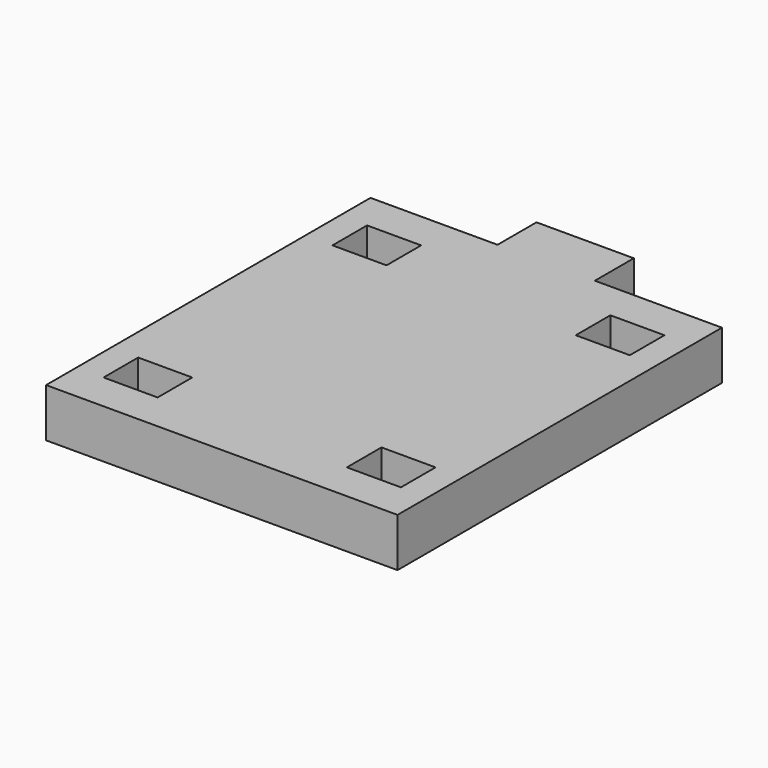
from build123d import *

# Parameters (mm, degrees)
F0_W     = 65
F0_H     = 75
F1_DEPTH = 9
F3_DEPTH = 9
F4_W     = 10
F4_H     = 8
F5_DEPTH = 9.001


with BuildPart() as f1:
    # F0 (on Top) → F1 (new body)
    with BuildSketch(Plane.XY):
        Rectangle(F0_W, F0_H)
    extrude(amount=F1_DEPTH)

    # F2 (on face) → F3 (join, through all)
    with BuildSketch(Plane.XY.offset(9)):
        Polygon((9, 46.5), (0, 46.5), (-9, 46.5), (-9, 37.5), (0, 37.5), (9, 37.5), align=None)
    extrude(amount=-F3_DEPTH)

    # F4 (on face) → F5 (cut, through all)
    with BuildSketch(Plane.XY.offset(9)):
        with Locations((-22.5, 26.4595)):
            Rectangle(F4_W, F4_H)
        with Locations((22.5, 26.4595)):
            Rectangle(F4_W, F4_H)
        with Locations((22.5, -26.4595)):
            Rectangle(F4_W, F4_H)
        with Locations((-22.5, -26.4595)):
            Rectangle(F4_W, F4_H)
    extrude(amount=-F5_DEPTH, mode=Mode.SUBTRACT)


solid = f1.part
